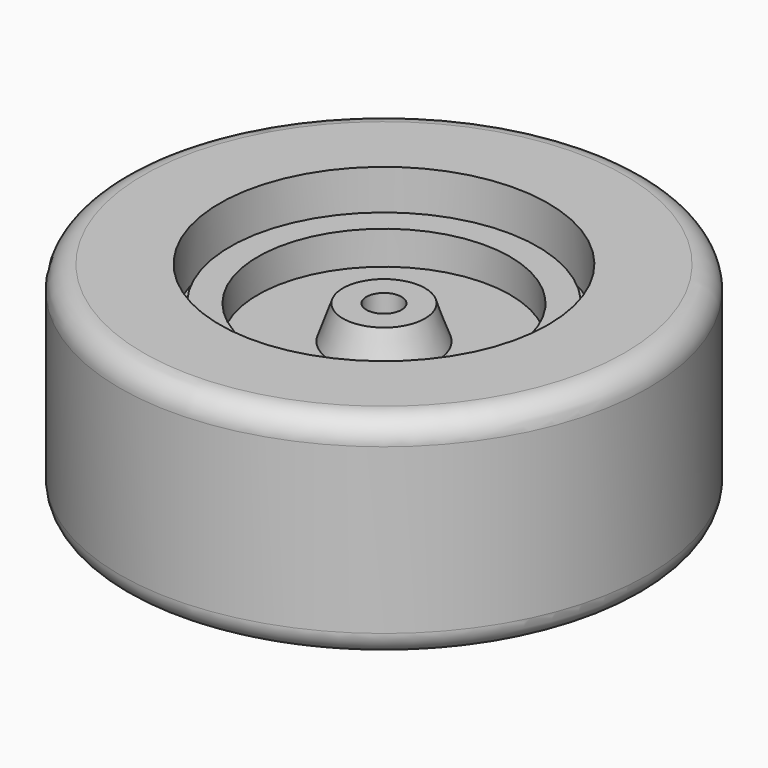
from build123d import *

# Parameters (mm, degrees)
SKETCH001_R       = 1.5
POCKET_DEPTH      = 9.351
POCKET_DEPTH_BACK = -3.851


with BuildPart() as hub:
    # Sketch → Revolution (revolve)
    with BuildSketch(Plane.XZ):
        Polygon((0, -3.85), (0, 3.85), (3.5, 3.85), (4.5, 1), (10.75, 1), (10.75, 3.85), (13.1, 3.85), (13.1, 1.65), (14.9, 1.65), (17.5, 0.75), (17.5, -5.25), (14.9, -6.15), (13.1, -6.15), (13.1, -9.35), (10.75, -9.35), (10.75, -1), (4.5, -1), (3.5, -3.85), align=None)
    revolve(axis=Axis((0, 0, 0), (0, 0, 1)))

    # Sketch001 → Pocket (cut, two sides)
    with BuildSketch(Plane.XY) as pocket_sk:
        Circle(SKETCH001_R)
    extrude(amount=-POCKET_DEPTH, mode=Mode.SUBTRACT)
    extrude(pocket_sk.sketch, amount=-POCKET_DEPTH_BACK, mode=Mode.SUBTRACT)


with BuildPart() as tire:
    # Sketch002 → Revolution001 (revolve)
    with BuildSketch(Plane.XZ):
        with BuildLine():
            Line((14, 6.8), (20.5, 6.8))
            ThreePointArc((22.5, 4.8), (21.914214, 6.214214), (20.5, 6.8))
            Line((22.5, 4.8), (22.5, -9.2))
            ThreePointArc((20.5, -11.2), (21.914214, -10.614214), (22.5, -9.2))
            Line((20.5, -11.2), (14, -11.2))
            Line((14, -11.2), (14, -6.7))
            Line((14, -6.7), (17.5, -6.7))
            Line((17.5, -6.7), (17.5, 2.3))
            Line((17.5, 2.3), (14, 2.3))
            Line((14, 2.3), (14, 6.8))
        make_face()
    revolve(axis=Axis((0, 0, 0), (0, 0, 1)))


solid = Compound([hub.part, tire.part])
